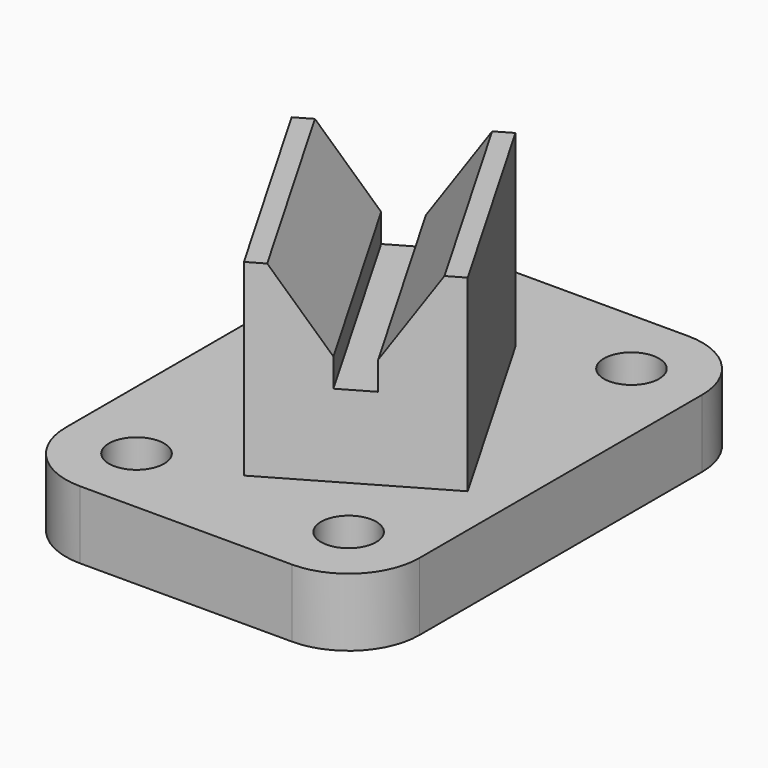
from build123d import *

# Parameters (mm, degrees)
F0_R     = 4.953
F1_DEPTH = 12.192
F3_DEPTH = 33.782
F5_DEPTH = 76.681470016


with BuildPart() as f1:
    # F0 (on Top) → F1 (new body)
    with BuildSketch(Plane.XY):
        with BuildLine():
            ThreePointArc((0, 12.7), (3.7197438789, 3.7197438789), (12.7, 0))
            Line((12.7, 0), (50.8, 0))
            ThreePointArc((50.8, 0), (59.7802561211, 3.7197438789), (63.5, 12.7))
            Line((63.5, 12.7), (63.5, 76.2))
            ThreePointArc((63.5, 76.2), (59.7802561211, 85.1802561211), (50.8, 88.9))
            Line((50.8, 88.9), (12.7, 88.9))
            ThreePointArc((12.7, 88.9), (3.7197438789, 85.1802561211), (0, 76.2))
            Line((0, 76.2), (0, 12.7))
        make_face()
        with Locations((12.7, 12.7)):
            Circle(F0_R, mode=Mode.SUBTRACT)
        with Locations((50.8, 12.7)):
            Circle(F0_R, mode=Mode.SUBTRACT)
        with Locations((12.7, 76.2)):
            Circle(F0_R, mode=Mode.SUBTRACT)
        with Locations((50.8, 76.2)):
            Circle(F0_R, mode=Mode.SUBTRACT)
    extrude(amount=F1_DEPTH)

    # F2 (on face) → F3 (join)
    with BuildSketch(Plane.XY.offset(12.192)):
        Polygon((28.6376934298, 16.891), (56.134, 32.766), (33.909, 71.2608291982), (6.4126934298, 55.3858291982), align=None)
    extrude(amount=F3_DEPTH)

    # F4 (on face) → F5 (cut, through all)
    with BuildSketch(Plane(origin=(-0.1545941902, 0.267764992, 0), x_dir=(0.8660254038, 0.5, 0), z_dir=(0.5, -0.8660254038, 0))):
        Polygon((52.296470016, 32.004), (61.694470016, 45.974), (36.548470016, 45.974), (45.946470016, 32.004), (45.946470016, 26.924), (52.296470016, 26.924), align=None)
    extrude(amount=-F5_DEPTH, mode=Mode.SUBTRACT)


solid = f1.part
